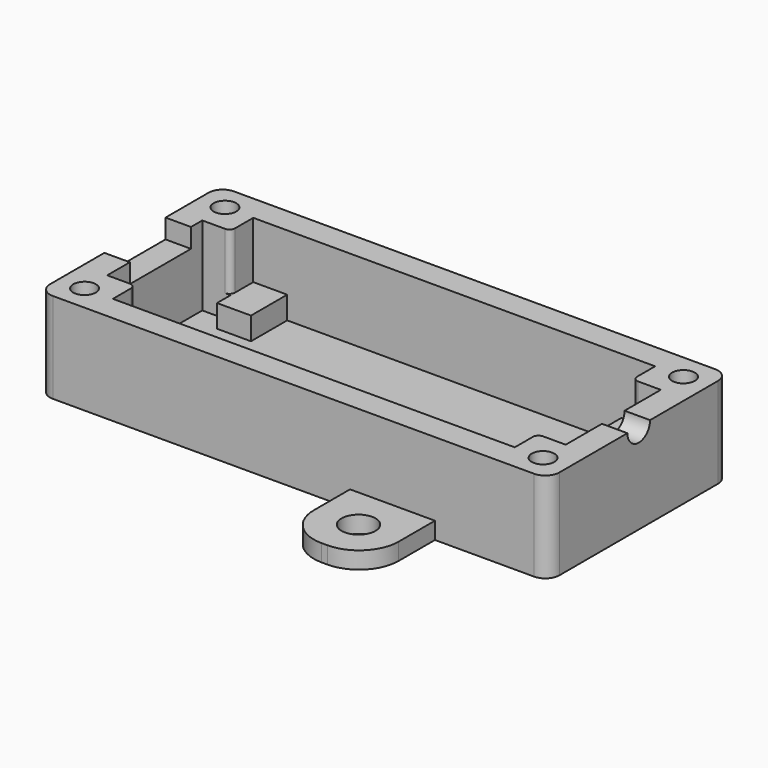
from build123d import *

# Parameters (mm, degrees)
SKETCH_W        = 90
SKETCH_H        = 40
PAD_DEPTH       = 16
POCKET_DEPTH    = 14
POCKET001_DEPTH = 6
SKETCH003_W     = 13.5
SKETCH003_H     = 3.4
POCKET002_DEPTH = 6
SKETCH005_R     = 2
POCKET003_DEPTH = 10
SKETCH006_W     = 6
SKETCH006_H     = 8
PAD001_DEPTH    = 4
FILLET_R        = 2.5
FILLET001_R     = 1
SKETCH007_W     = 15
SKETCH007_H     = 3
PAD002_DEPTH    = 15
FILLET002_R     = 7
SKETCH008_R     = 3
HOLE_DEPTH      = 25
SKETCH009_W     = 15
SKETCH009_H     = 3
PAD003_DEPTH    = 15
FILLET003_R     = 7
SKETCH010_R     = 3
HOLE001_DEPTH   = 25


with BuildPart() as part:
    # Sketch → Pad (new body)
    with BuildSketch(Plane.XY):
        with Locations((45, 20)):
            Rectangle(SKETCH_W, SKETCH_H)
    extrude(amount=PAD_DEPTH)

    # Sketch001 (on Face6 of Pad) → Pocket (cut)
    with BuildSketch(Plane.XY.offset(16)):
        Polygon((4.5, 30.5), (4.5, 9.5), (9.5, 9.5), (9.5, 4.5), (80.5, 4.5), (80.5, 9.5), (85.5, 9.5), (85.5, 30.5), (80.5, 30.5), (80.5, 35.5), (9.5, 35.5), (9.5, 30.5), align=None)
    extrude(amount=-POCKET_DEPTH, mode=Mode.SUBTRACT)

    # Sketch002 (on Face6 of Pocket) → Pocket001 (cut)
    with BuildSketch(Plane.YZ.offset(90)):
        with BuildLine():
            ThreePointArc((17.5, 16), (20, 13.499987), (22.5, 16))
            Line((17.5, 16), (22.5, 16))
        make_face()
    extrude(amount=-POCKET001_DEPTH, mode=Mode.SUBTRACT)

    # Sketch003 (on Face1 of Pocket001) → Pocket002 (cut)
    with BuildSketch(Plane(origin=(0, 0, 0), x_dir=(0, -1, 0), z_dir=(-1, 0, 0))):
        with Locations((-21.25, 14.3)):
            Rectangle(SKETCH003_W, SKETCH003_H)
    extrude(amount=-POCKET002_DEPTH, mode=Mode.SUBTRACT)

    # Sketch005 (on Face8 of Pocket002) → Pocket003 (cut)
    with BuildSketch(Plane.XY.offset(16)):
        with Locations((4.5, 35.5)):
            Circle(SKETCH005_R)
        with Locations((4.5, 4.5)):
            Circle(SKETCH005_R)
        with Locations((85.5, 35.5)):
            Circle(SKETCH005_R)
        with Locations((85.5, 4.5)):
            Circle(SKETCH005_R)
    extrude(amount=-POCKET003_DEPTH, mode=Mode.SUBTRACT)

    # Sketch006 (on Face28 of Pocket003) → Pad001 (join)
    with BuildSketch(Plane.XY.offset(2)):
        with Locations((77.5, 31.5)):
            Rectangle(SKETCH006_W, SKETCH006_H)
        with Locations((12.5, 8.5)):
            Rectangle(SKETCH006_W, SKETCH006_H)
        with Locations((12.5, 31.5)):
            Rectangle(SKETCH006_W, SKETCH006_H)
        with Locations((77.5, 8.5)):
            Rectangle(SKETCH006_W, SKETCH006_H)
    extrude(amount=PAD001_DEPTH)

    # Fillet
    fillet_edges = [part.edges().sort_by_distance(p)[0] for p in [
        (0, 0, 8),
        (90, 0, 8),
        (90, 40, 8),
        (0, 40, 8),
    ]]
    fillet(fillet_edges, radius=FILLET_R)

    # Fillet001
    fillet001_edges = [part.edges().sort_by_distance(p)[0] for p in [
        (9.5, 30.5, 11),
        (80.5, 30.5, 11),
        (80.5, 9.5, 11),
        (9.5, 9.5, 11),
    ]]
    fillet(fillet001_edges, radius=FILLET001_R)

    # Sketch007 (on Face50 of Fillet001) → Pad002 (join)
    with BuildSketch(Plane.XZ):
        with Locations((62.5, 1.5)):
            Rectangle(SKETCH007_W, SKETCH007_H)
    extrude(amount=PAD002_DEPTH)

    # Fillet002
    fillet002_edges = [part.edges().sort_by_distance(p)[0] for p in [
        (55, -15, 1.5),
        (70, -15, 1.5),
    ]]
    fillet(fillet002_edges, radius=FILLET002_R)

    # Sketch008 (on Face8 of Fillet002) → Hole (cut)
    with BuildSketch(Plane.XY.offset(3)):
        with Locations((62.5, -7.5)):
            Circle(SKETCH008_R)
    extrude(amount=-HOLE_DEPTH, mode=Mode.SUBTRACT)

    # Sketch009 (on Face14 of Hole) → Pad003 (join)
    with BuildSketch(Plane(origin=(0, 40, 0), x_dir=(-1, 0, 0), z_dir=(0, 1, 0))):
        with Locations((-27.5, 1.5)):
            Rectangle(SKETCH009_W, SKETCH009_H)
    extrude(amount=PAD003_DEPTH)

    # Fillet003
    fillet003_edges = [part.edges().sort_by_distance(p)[0] for p in [
        (35, 55, 1.5),
        (20, 55, 1.5),
    ]]
    fillet(fillet003_edges, radius=FILLET003_R)

    # Sketch010 (on Face8 of Fillet003) → Hole001 (cut)
    with BuildSketch(Plane.XY.offset(3)):
        with Locations((27.5, 47.5)):
            Circle(SKETCH010_R)
    extrude(amount=-HOLE001_DEPTH, mode=Mode.SUBTRACT)


solid = part.part
